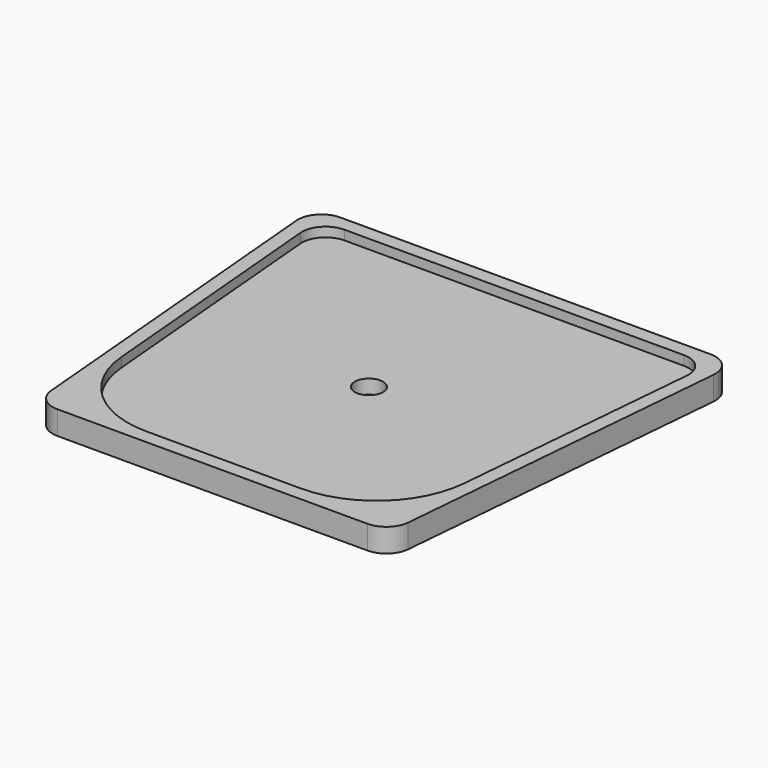
from build123d import *

# Parameters (mm, degrees)
F1_DEPTH  = 10
F2_W      = 90
F2_H      = 40
F2_H_2    = 10
F3_DEPTH  = 10
F4_R      = 5
F5_R      = 4
F6_DEPTH  = 25
F7_R      = 3
F8_R      = 3
F10_DEPTH = 2
F11_R     = 3
F12_DEPTH = 25
F13_W     = 33.655686304
F13_H     = 120.6225939095
F14_DEPTH = 90.001
F15_R     = 5
F16_W     = 90.2396612329
F16_H     = 12.9153318724
F17_DEPTH = 50


with BuildPart() as f1:
    # F0 (on Top) → F1 (new body)
    with BuildSketch(Plane.XY):
        Polygon((41.5450818927, 0), (-48.4549181073, 0), (-40.9308930441, -86), (34.0210568295, -86), align=None)
    extrude(amount=F1_DEPTH)

    # F2 (on face) → F3 (join)
    with BuildSketch(Plane(origin=(0, 0, 0), x_dir=(-1, 0, 0), z_dir=(0, 1, 0))):
        with Locations((3.4549181073, 30)):
            Rectangle(F2_W, F2_H)
        with Locations((3.4549181073, 5)):
            Rectangle(F2_W, F2_H_2)
        with Locations((3.4549181073, -20)):
            Rectangle(F2_W, F2_H)
    extrude(amount=F3_DEPTH)

    # F4
    f4_edges = [f1.edges().sort_by_distance(p)[0] for p in [
        (-40.930893, -86, 5),
        (34.021057, -86, 5),
    ]]
    fillet(f4_edges, radius=F4_R)

    # F5 (on face) → F6 (cut)
    with BuildSketch(Plane.XZ):
        with Locations((-28.4549181073, 40)):
            Circle(F5_R)
        with Locations((21.5450818927, 40)):
            Circle(F5_R)
    extrude(amount=-F6_DEPTH, mode=Mode.SUBTRACT)

    # F7
    f7_edges = [f1.edges().sort_by_distance(p)[0] for p in [
        (-48.454918, 5, 50),
        (41.545082, 5, 50),
        (41.545082, 5, -40),
        (-48.454918, 5, -40),
    ]]
    fillet(f7_edges, radius=F7_R)

    # F8
    f8_edges = [f1.edges().sort_by_distance(p)[0] for p in [
        (-3.454918, 0, 10),
    ]]
    fillet(f8_edges, radius=F8_R)

    # F9 (on face) → F10 (cut)
    with BuildSketch(Plane.XY.offset(10)):
        with BuildLine():
            ThreePointArc((37.533121384, -11.4357787137), (36.2385345776, -7.6220489619), (32.5521478936, -6))
            Line((32.5521478936, -6), (-39.4619841082, -6))
            ThreePointArc((-39.4619841082, -6), (-43.1483707922, -7.6220489619), (-44.4429575986, -11.4357787137))
            Line((-44.4429575986, -11.4357787137), (-39.7791700035, -64.743114855))
            ThreePointArc((-39.7791700035, -64.743114855), (-33.367080194, -77.7455467362), (-19.8552760417, -83))
            Line((-19.8552760417, -83), (12.9454398271, -83))
            ThreePointArc((12.9454398271, -83), (26.4572439794, -77.7455467362), (32.8693337889, -64.743114855))
            Line((32.8693337889, -64.743114855), (37.533121384, -11.4357787137))
        make_face()
    extrude(amount=-F10_DEPTH, mode=Mode.SUBTRACT)

    # F11 (on face) → F12 (cut)
    with BuildSketch(Plane.XY.offset(8)):
        with Locations((-3.4549181073, -44.5)):
            Circle(F11_R)
    extrude(amount=-F12_DEPTH, mode=Mode.SUBTRACT)

    # F13 (on face) → F14 (cut, through all)
    with BuildSketch(Plane(origin=(-48.4549181073, 0, 0), x_dir=(0, -1, 0), z_dir=(-1, 0, 0))):
        with Locations((-13.827843152, 2.30451487)):
            Rectangle(F13_W, F13_H)
    extrude(amount=-F14_DEPTH, mode=Mode.SUBTRACT)

    # F15
    f15_edges = [f1.edges().sort_by_distance(p)[0] for p in [
        (-48.192452, -3, 5),
        (41.282616, -3, 5),
    ]]
    fillet(f15_edges, radius=F15_R)

    # F16 (on Right) → F17 (cut, symmetric)
    with BuildSketch(Plane.YZ):
        with Locations((-45.4951552674, -1.4576659362)):
            Rectangle(F16_W, F16_H)
    extrude(amount=F17_DEPTH, both=True, mode=Mode.SUBTRACT)


solid = f1.part
